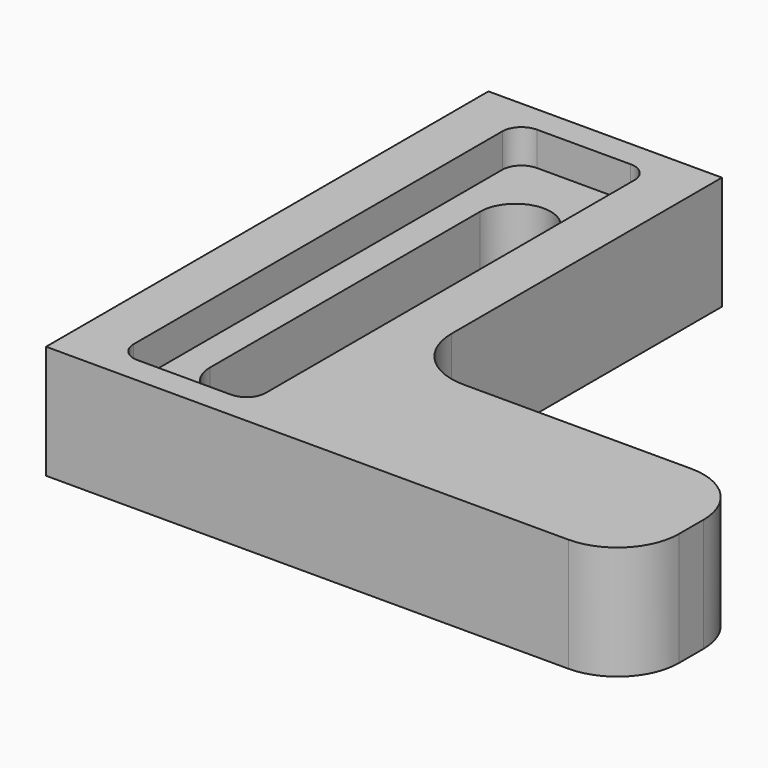
from build123d import *

# Parameters (mm, degrees)
F0_W     = 48.26
F0_H     = 45.72
F1_DEPTH = 9.398
F2_W     = 28.956
F2_H     = 33.02
F3_DEPTH = 25.4
F4_W     = 10.922
F4_H     = 41.275
F5_DEPTH = 2.794
F7_DEPTH = 6.605
F8_R     = 5.08
F9_R     = 1.5875
F10_R    = 5.08


with BuildPart() as f1:
    # F0 (on Top) → F1 (new body)
    with BuildSketch(Plane.XY):
        with Locations((24.13, 22.86)):
            Rectangle(F0_W, F0_H)
    extrude(amount=F1_DEPTH)

    # F2 (on face) → F3 (cut)
    with BuildSketch(Plane.XY.offset(9.398)):
        with Locations((33.782, 29.21)):
            Rectangle(F2_W, F2_H)
    extrude(amount=-F3_DEPTH, mode=Mode.SUBTRACT)

    # F4 (on face) → F5 (cut)
    with BuildSketch(Plane.XY.offset(9.398)):
        with Locations((9.652, 22.86)):
            Rectangle(F4_W, F4_H)
    extrude(amount=-F5_DEPTH, mode=Mode.SUBTRACT)

    # F6 (on face) → F7 (cut, through all)
    with BuildSketch(Plane.XY.offset(6.604)):
        with BuildLine():
            ThreePointArc((12.573, 36.449), (9.652, 39.37), (6.731, 36.449))
            Line((6.731, 36.449), (6.731, 8.509))
            ThreePointArc((6.731, 8.509), (9.652, 5.588), (12.573, 8.509))
            Line((12.573, 8.509), (12.573, 36.449))
        make_face()
    extrude(amount=-F7_DEPTH, mode=Mode.SUBTRACT)

    # F8
    f8_edges = [f1.edges().sort_by_distance(p)[0] for p in [
        (19.304, 12.7, 4.699),
    ]]
    fillet(f8_edges, radius=F8_R)

    # F9
    f9_edges = [f1.edges().sort_by_distance(p)[0] for p in [
        (4.191, 43.4975, 8.001),
        (4.191, 2.2225, 8.001),
        (15.113, 2.2225, 8.001),
        (15.113, 43.4975, 8.001),
    ]]
    fillet(f9_edges, radius=F9_R)

    # F10
    f10_edges = [f1.edges().sort_by_distance(p)[0] for p in [
        (48.26, 0, 4.699),
        (48.26, 12.7, 4.699),
    ]]
    fillet(f10_edges, radius=F10_R)


solid = f1.part
